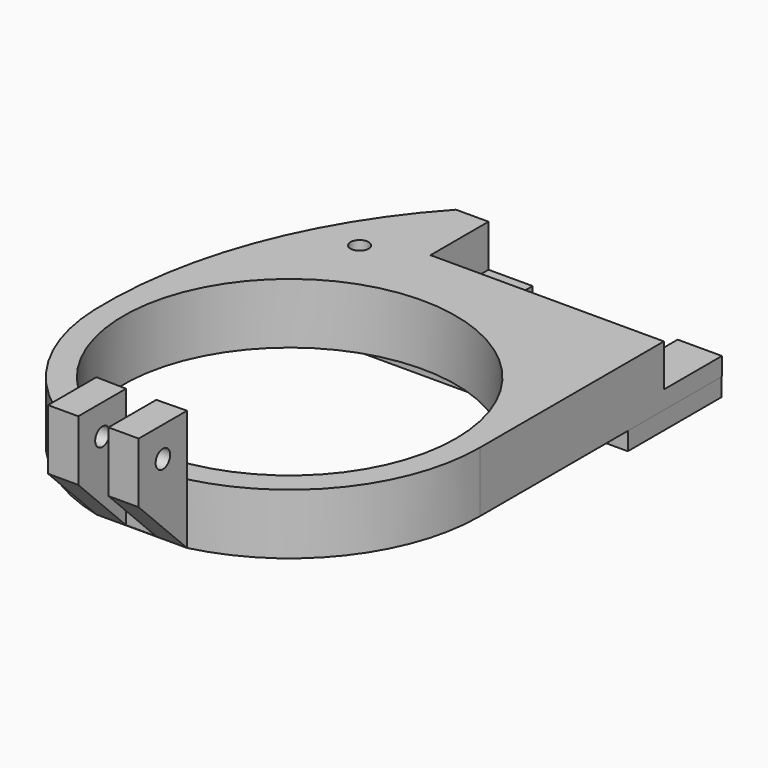
from build123d import *

# Parameters (mm, degrees)
F0_R      = 27.5
F1_DEPTH  = 10
F2_DEPTH  = 20
F4_DEPTH  = 25
F5_W      = 40
F5_H      = 12
F6_DEPTH  = 7
F8_W      = 44.069208
F8_H      = 19.358708
F9_DEPTH  = 3
F7_W      = 24
F7_H      = 12
F10_DEPTH = 25
F11_R     = 1.5
F12_DEPTH = 25
F13_R     = 1.5
F14_DEPTH = 25


with BuildPart() as f1:
    # F0 (on Top) → F1 (new body)
    with BuildSketch(Plane.XY):
        with BuildLine():
            ThreePointArc((-12.5, 50.037254), (-27.025356, 26.362934), (-31.482419, -1.052282))
            ThreePointArc((-31.482419, -1.052282), (-24.455823, -19.853532), (-7.5, -30.594117))
            Line((-7.5, -30.594117), (-2.5, -30.712094))
            Line((-2.5, -30.712094), (2.5, -30.712094))
            Line((2.5, -30.712094), (7.5, -30.594117))
            ThreePointArc((7.5, -30.594117), (24.784067, -19.442222), (31.5, 0))
            Line((31.5, 0), (31.5, 50.037254))
            Line((31.5, 50.037254), (-12.5, 50.037254))
        make_face()
        Circle(F0_R, mode=Mode.SUBTRACT)
    extrude(amount=F1_DEPTH)

    # F0 (on Top) → F2 (join)
    with BuildSketch(Plane.XY):
        Polygon((7.5, -30.594117), (2.5, -30.712094), (2.5, -40.594117), (7.5, -40.594117), align=None)
        Polygon((-2.5, -30.712094), (-7.5, -30.594117), (-7.5, -40.594117), (-2.5, -40.594117), align=None)
    extrude(amount=F2_DEPTH)

    # F3 (on face) → F4 (cut)
    with BuildSketch(Plane(origin=(-7.5, 0, 0), x_dir=(0, -1, 0), z_dir=(-1, 0, 0))):
        Polygon((40.594117, 10), (30.594117, 0), (40.594117, 0), align=None)
    extrude(amount=-F4_DEPTH, mode=Mode.SUBTRACT)

    # F5 (on face) → F6 (cut)
    with BuildSketch(Plane.XY.offset(10)):
        with Locations((12.876151, 44.037254)):
            Rectangle(F5_W, F5_H)
    extrude(amount=-F6_DEPTH, mode=Mode.SUBTRACT)

    # F8 (on face) → F9 (join)
    with BuildSketch(Plane.XY):
        with Locations((9.436336, 40.292357)):
            Rectangle(F8_W, F8_H)
    extrude(amount=-F9_DEPTH)

    # F7 (on face) → F10 (cut)
    with BuildSketch(Plane.XY.offset(3)):
        with Locations((12.176151, 44.037254)):
            Rectangle(F7_W, F7_H)
    extrude(amount=-F10_DEPTH, mode=Mode.SUBTRACT)

    # F11 (on face) → F12 (cut)
    with BuildSketch(Plane.XY.offset(10)):
        with Locations((-15.985942, 34.45212)):
            Circle(F11_R)
    extrude(amount=-F12_DEPTH, mode=Mode.SUBTRACT)

    # F13 (on face) → F14 (cut)
    with BuildSketch(Plane(origin=(-7.5, 0, 0), x_dir=(0, -1, 0), z_dir=(-1, 0, 0))):
        with Locations((35.594117, 15)):
            Circle(F13_R)
    extrude(amount=-F14_DEPTH, mode=Mode.SUBTRACT)


solid = f1.part
